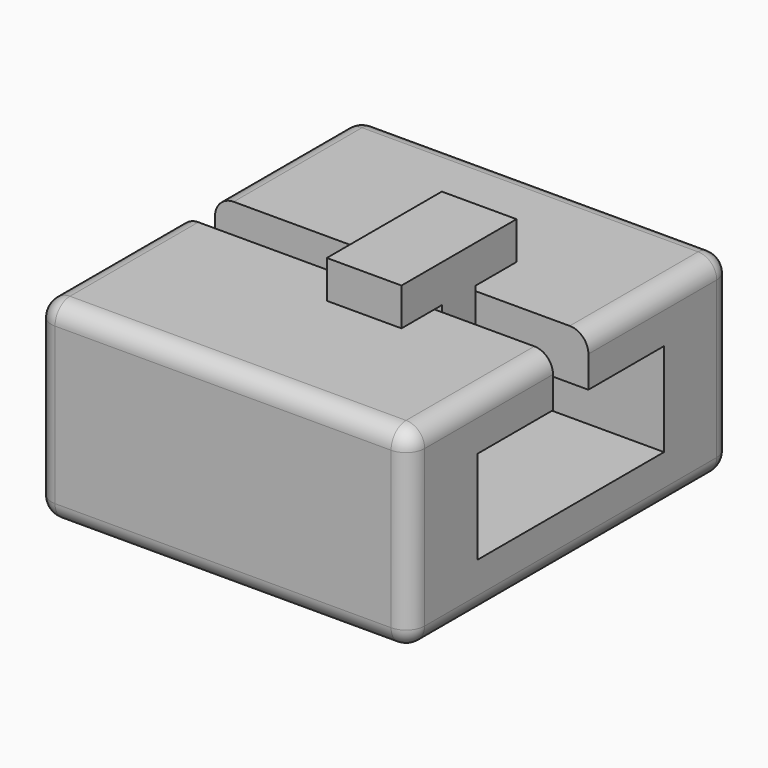
from build123d import *

# Parameters (mm, degrees)
F0_W           = 109.4823107123
F0_H           = 52.671354264
F1_DEPTH       = 50.8
F1_DEPTH_BACK  = 50.8
F2_W           = 63.5
F2_H           = 25.4
F3_DEPTH       = 124.714
F4_W           = 12.0294783264
F4_H           = 23.4994404018
F5_DEPTH       = 118.872
F6_W           = 63.5011941195
F6_H           = 25.4023242742
F7_DEPTH       = 20.32
F8_W           = 20.32
F8_H           = 11.4699648693
F9_DEPTH       = 25.4
F10_R          = 5.08
F11_W          = 20.32
F11_H          = 10.2655154929
F12_DEPTH      = 13.716
F12_DEPTH_BACK = 25.4


with BuildPart() as f1:
    # F0 (on Right) → F1 (new body, two sides)
    with BuildSketch(Plane.YZ) as f1_sk:
        Rectangle(F0_W, F0_H)
    extrude(amount=F1_DEPTH)
    extrude(f1_sk.sketch, amount=-F1_DEPTH_BACK)

    # F2 (on face) → F3 (cut)
    with BuildSketch(Plane.YZ.offset(50.8)):
        Rectangle(F2_W, F2_H)
    extrude(amount=-F3_DEPTH, mode=Mode.SUBTRACT)

    # F4 (on face) → F5 (cut)
    with BuildSketch(Plane.YZ.offset(50.8)):
        with Locations((0, 18.3239690959)):
            Rectangle(F4_W, F4_H)
    extrude(amount=-F5_DEPTH, mode=Mode.SUBTRACT)

    # F10
    f10_edges = [f1.edges().sort_by_distance(p)[0] for p in [
        (0, -54.741155, 26.335677),
        (0, 54.741155, 26.335677),
        (0, -54.741155, -26.335677),
        (0, 54.741155, -26.335677),
        (50.8, 54.741155, 0),
        (50.8, 30.377947, 26.335677),
        (50.8, -30.377947, 26.335677),
        (50.8, -54.741155, 0),
        (50.8, 0, -26.335677),
        (-50.8, 30.377947, 26.335677),
        (-50.8, -30.377947, 26.335677),
        (-50.8, 54.741155, 0),
        (-50.8, 0, -26.335677),
        (-50.8, -54.741155, 0),
    ]]
    fillet(f10_edges, radius=F10_R)


with BuildPart() as f7:
    # F6 (on Right) → F7 (new body)
    with BuildSketch(Plane.YZ):
        Rectangle(F6_W, F6_H)
    extrude(amount=F7_DEPTH)

    # F8 (on face) → F9 (join)
    with BuildSketch(Plane.XY.offset(12.7011621371)):
        with Locations((10.16, 0)):
            Rectangle(F8_W, F8_H)
    extrude(amount=F9_DEPTH)

    # F11 (on face) → F12 (join, two sides)
    with BuildSketch(Plane.XZ.offset(5.7349824347)) as f12_sk:
        with Locations((10.16, 32.9684043907)):
            Rectangle(F11_W, F11_H)
    extrude(amount=F12_DEPTH)
    extrude(f12_sk.sketch, amount=-F12_DEPTH_BACK)


solid = Compound([f1.part, f7.part])
